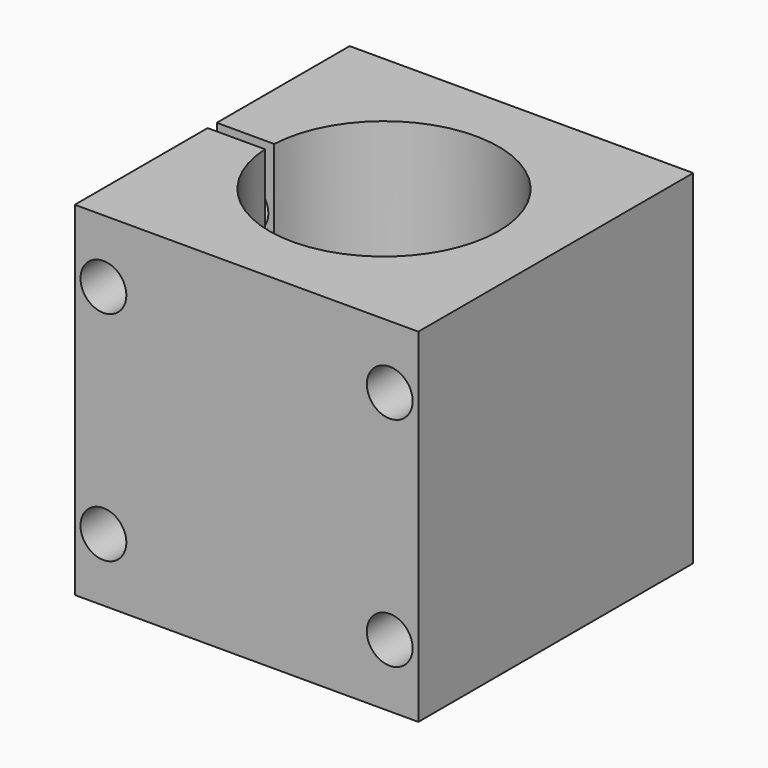
from build123d import *

# Parameters (mm, degrees)
F0_W     = 60
F0_H     = 60
F0_R     = 20
F1_DEPTH = 60
F2_W     = 10.025016
F2_H     = 2
F3_DEPTH = 60.001
F4_R     = 4
F5_DEPTH = 60


with BuildPart() as f1:
    # F0 (on Top) → F1 (new body)
    with BuildSketch(Plane.XY):
        Rectangle(F0_W, F0_H)
        Circle(F0_R, mode=Mode.SUBTRACT)
    extrude(amount=F1_DEPTH)

    # F2 (on face) → F3 (cut, through all)
    with BuildSketch(Plane.XY.offset(60)):
        with Locations((-24.987492, 0)):
            Rectangle(F2_W, F2_H)
    extrude(amount=-F3_DEPTH, mode=Mode.SUBTRACT)

    # F4 (on face) → F5 (cut)
    with BuildSketch(Plane(origin=(0, 30, 0), x_dir=(-1, 0, 0), z_dir=(0, 1, 0))):
        with Locations((25, 11)):
            Circle(F4_R)
        with Locations((25, 49)):
            Circle(F4_R)
        with Locations((-25, 49)):
            Circle(F4_R)
        with Locations((-25, 11)):
            Circle(F4_R)
    extrude(amount=-F5_DEPTH, mode=Mode.SUBTRACT)


solid = f1.part
